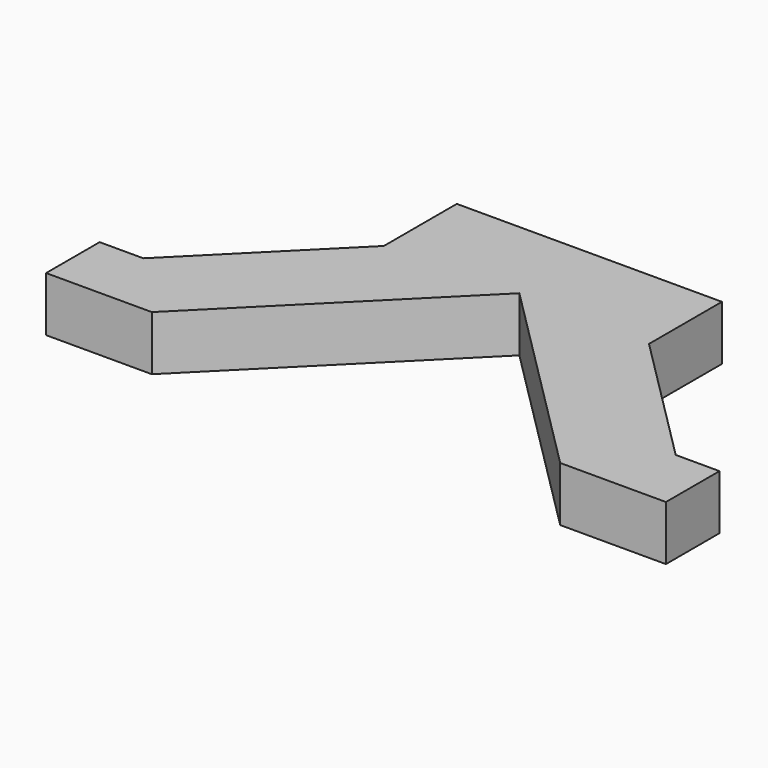
from build123d import *

# Parameters (mm, degrees)
F1_W     = 170
F1_H     = 80
F2_DEPTH = 15
F4_DEPTH = 15
F6_DEPTH = 25


with BuildPart() as f2:
    # F1 (on Top) → F2 (new body)
    with BuildSketch(Plane.XY):
        with Locations((0, 48.682307)):
            Rectangle(F1_W, F1_H)
    extrude(amount=F2_DEPTH)

    # F3 (on face) → F4 (cut)
    with BuildSketch(Plane.XY.offset(15)):
        Polygon((0, 64.682307), (-56, 8.682307), (56, 8.682307), align=None)
    extrude(amount=-F4_DEPTH, mode=Mode.SUBTRACT)

    # F5 (on face) → F6 (cut)
    with BuildSketch(Plane.XY.offset(15)):
        Polygon((-85, 88.682307), (-85, 27.037646), (-73, 27.037646), (-36.355339, 63.682307), (-36.355339, 88.682307), align=None)
        Polygon((85, 88.682307), (36.355339, 88.682307), (36.355339, 63.682307), (73, 27.037646), (85, 27.037646), align=None)
    extrude(amount=-F6_DEPTH, mode=Mode.SUBTRACT)


solid = f2.part
